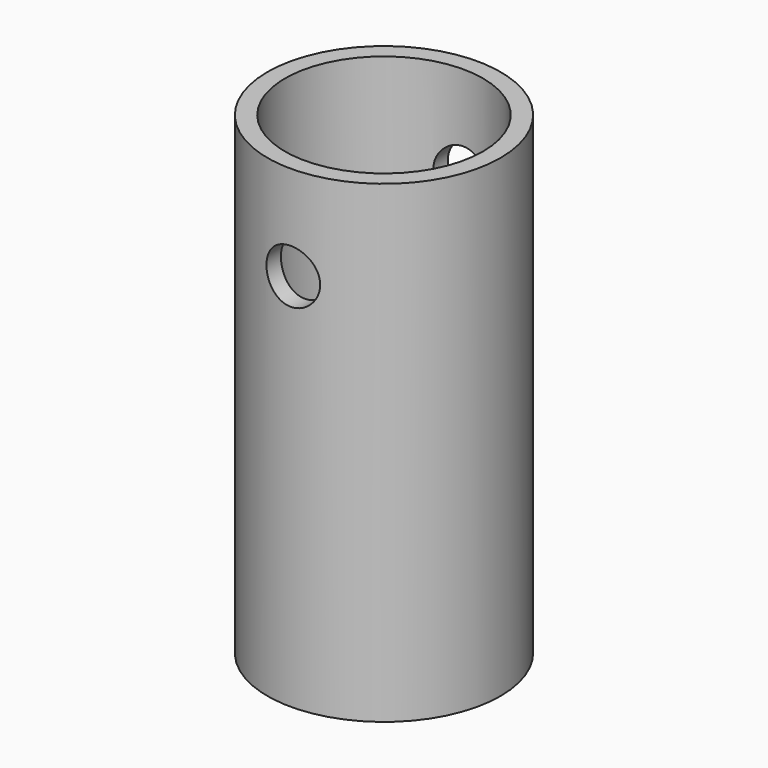
from build123d import *

# Parameters (mm, degrees)
F0_R          = 26.043045
F1_DEPTH      = 105.912507
F2_R          = 26.043045
F3_R          = 22.133915
F5_DEPTH      = 88.553265
F4_R          = 22.133915
F6_DEPTH      = 185.232297
F7_R          = 6.00256
F8_DEPTH      = 38.1
F8_DEPTH_BACK = 38.1


with BuildPart() as f1:
    # F0 (on Top) → F1 (new body)
    with BuildSketch(Plane.XY):
        Circle(F0_R)
    extrude(amount=F1_DEPTH)

    # F2 (on face) + F3 (on face) → F5 (join)
    with BuildSketch(Plane.XY.offset(105.912507)):
        Circle(F2_R)
    with BuildSketch(Plane.XY.offset(105.912507)):
        Circle(F3_R)
    extrude(amount=-F5_DEPTH)

    # F4 (on face) → F6 (cut)
    with BuildSketch(Plane.XY.offset(105.912507)):
        Circle(F4_R)
    extrude(amount=-F6_DEPTH, mode=Mode.SUBTRACT)

    # F7 (on Front) → F8 (cut, two sides)
    with BuildSketch(Plane.XZ) as f8_sk:
        with Locations((0, 84.731072)):
            Circle(F7_R)
    extrude(amount=F8_DEPTH, mode=Mode.SUBTRACT)
    extrude(f8_sk.sketch, amount=-F8_DEPTH_BACK, mode=Mode.SUBTRACT)


solid = f1.part
